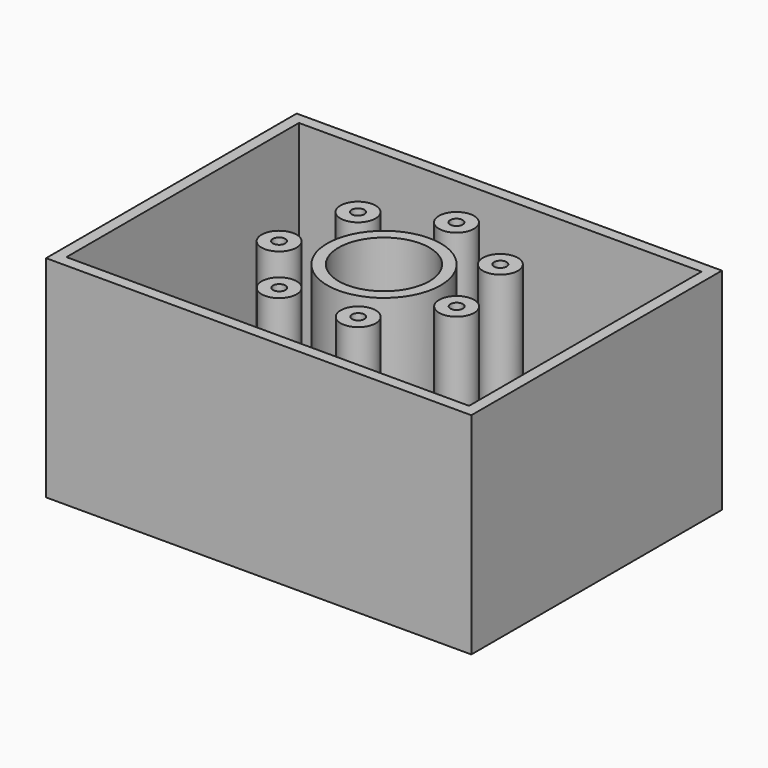
from build123d import *

# Parameters (mm, degrees)
F0_W     = 95.3876376152
F0_H     = 70.2621340752
F1_DEPTH = 47.244
F3_D     = 2.794
F4_R     = 10.1906585652
F5_DEPTH = 47.244
F6_T     = -2.54


with BuildPart() as f1:
    # F0 (on Top) → F1 (new body)
    with BuildSketch(Plane.XY):
        Rectangle(F0_W, F0_H)
    extrude(amount=F1_DEPTH)

    # F3 (through all)
    with Locations(Plane.XY.offset(47.244)):
        with Locations((-0.0553504175, 20.3824730712), (-15.9701695585, 12.6649893976), (-19.8591252898, -4.5894896111), (-8.7937546256, -18.3879893341), (8.8934926316, -18.3399580419), (19.883758543, -4.4815642772), (15.9011487168, 12.7515387955)):
            Hole(F3_D / 2)

    # F4 (on face) → F5 (cut, through all)
    with BuildSketch(Plane.XY.offset(47.244)):
        Circle(F4_R)
    extrude(amount=-F5_DEPTH, mode=Mode.SUBTRACT)

    # F6
    f6_openings = [f1.faces().sort_by_distance(p)[0] for p in [
        (-46.509101, 0, 47.244),
    ]]
    offset(amount=F6_T, openings=f6_openings)


solid = f1.part
